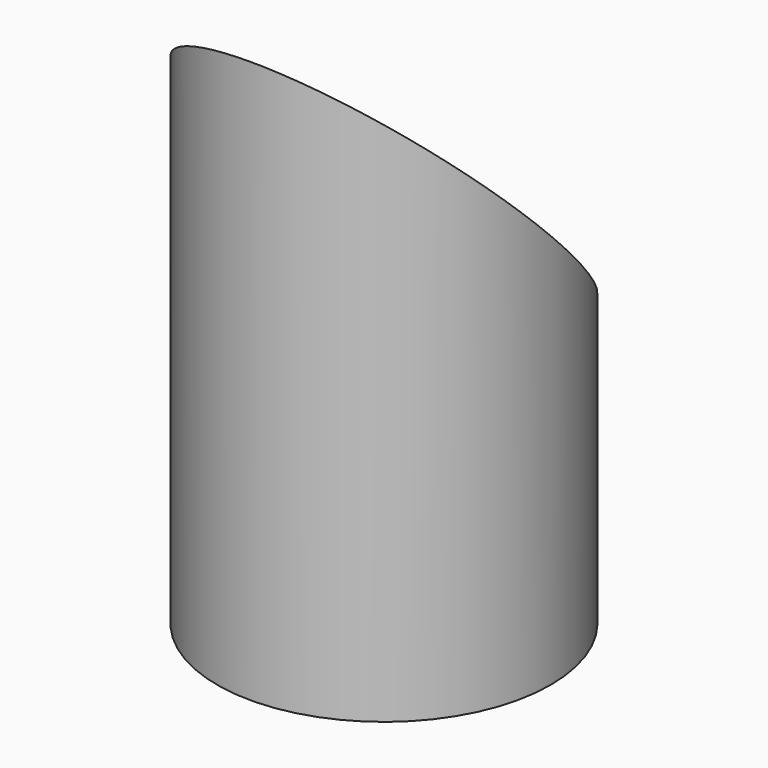
from build123d import *

# Parameters (mm, degrees)
F0_W     = 8.9
F0_H     = 30
F3_DEPTH = 12.5


with BuildPart() as f1:
    # F0 (on Front) → F1 (revolve)
    with BuildSketch(Plane.XZ):
        with Locations((4.45, 15)):
            Rectangle(F0_W, F0_H)
    revolve(axis=Axis((0, 0, 15), (0, 0, 1)))

    # F2 (on Right) → F3 (cut, symmetric)
    with BuildSketch(Plane.YZ):
        Polygon((8.9, 12.2), (8.9, 30), (-8.9, 30), align=None)
    extrude(amount=F3_DEPTH, both=True, mode=Mode.SUBTRACT)


solid = f1.part
